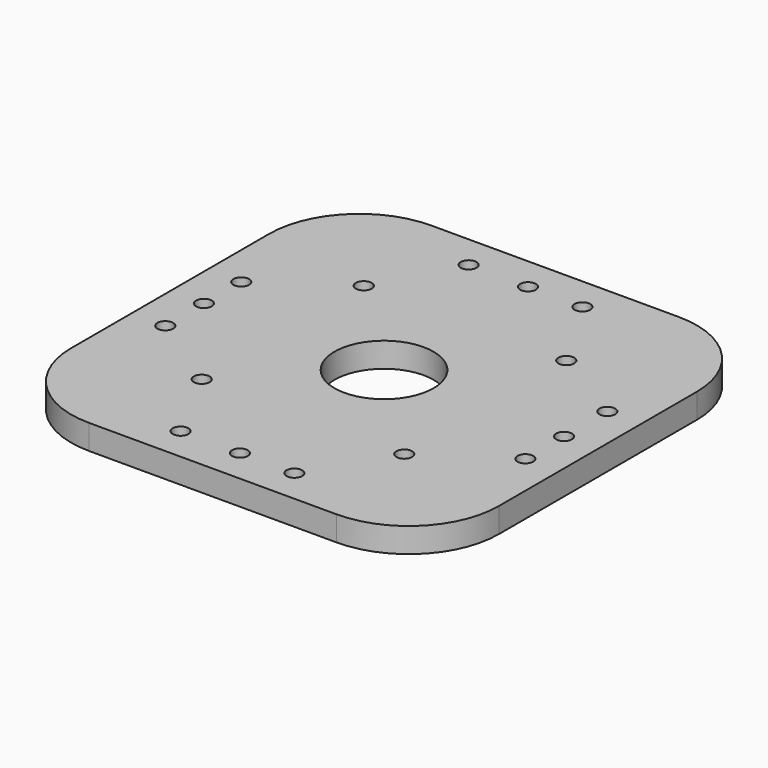
from build123d import *

# Parameters (mm, degrees)
F0_W            = 95
F0_H            = 95
F1_DEPTH        = 5.5
F2_R            = 20
F3_R            = 11
F4_DEPTH        = 5.5
F6_D            = 3.5
F6_CSINK_D      = 8.5
F6_CSINK_ANGLE  = 90
F8_D            = 3.5
F8_CSINK_D      = 8.5
F8_CSINK_ANGLE  = 90
F10_D           = 3.5
F10_CSINK_D     = 8.5
F10_CSINK_ANGLE = 90


with BuildPart() as f1:
    # F0 (on Top) → F1 (new body)
    with BuildSketch(Plane.XY):
        Rectangle(F0_W, F0_H)
    extrude(amount=F1_DEPTH)

    # F2
    f2_edges = [f1.edges().sort_by_distance(p)[0] for p in [
        (47.5, -47.5, 2.75),
        (47.5, 47.5, 2.75),
        (-47.5, 47.5, 2.75),
        (-47.5, -47.5, 2.75),
    ]]
    fillet(f2_edges, radius=F2_R)

    # F3 (on face) → F4 (cut)
    with BuildSketch(Plane.XY.offset(5.5)):
        Circle(F3_R)
    extrude(amount=-F4_DEPTH, mode=Mode.SUBTRACT)

    # F6 (through all)
    with Locations(Plane(origin=(0, 0, 0), x_dir=(1, 0, 0), z_dir=(0, 0, -1))):
        with Locations((0, -40), (0, 40), (40, 0), (-40, 0)):
            CounterSinkHole(F6_D / 2, F6_CSINK_D / 2, counter_sink_angle=F6_CSINK_ANGLE)

    # F8 (through all)
    with Locations(Plane(origin=(0, 0, 0), x_dir=(1, 0, 0), z_dir=(0, 0, -1))):
        with Locations((-13.188658, 40), (12.085494, 40), (40, 10.745424), (40, -12.022199), (12.085494, -40), (-13.188658, -40), (-40, -10.351182), (-40, 10.745424)):
            CounterSinkHole(F8_D / 2, F8_CSINK_D / 2, counter_sink_angle=F8_CSINK_ANGLE)

    # F10 (through all)
    with Locations(Plane(origin=(0, 0, 0), x_dir=(1, 0, 0), z_dir=(0, 0, -1))):
        with Locations((-22.5, 22.5), (22.5, 22.5), (22.5, -22.5), (-22.5, -22.5)):
            CounterSinkHole(F10_D / 2, F10_CSINK_D / 2, counter_sink_angle=F10_CSINK_ANGLE)


solid = f1.part
